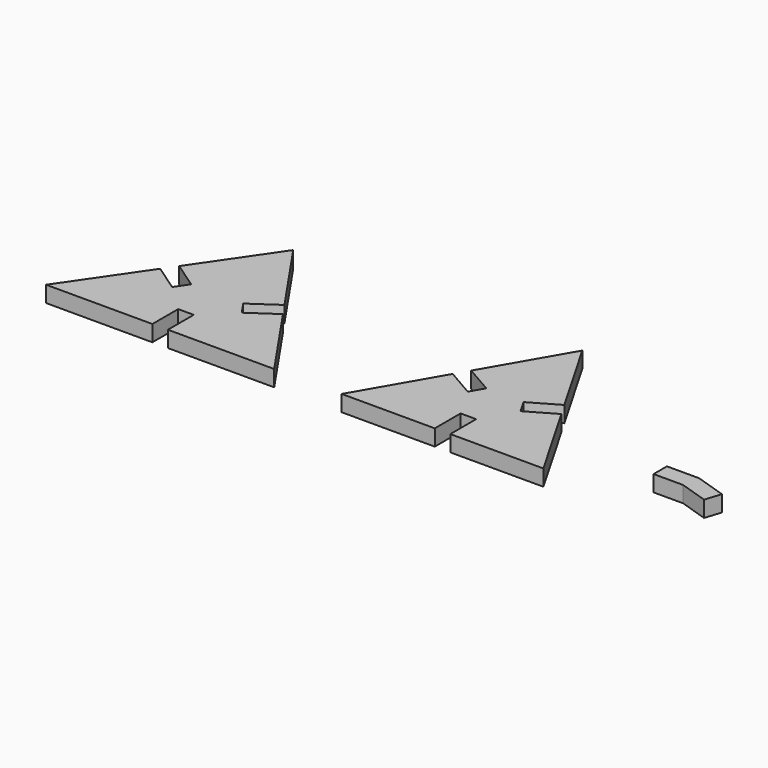
from build123d import *

# Parameters (mm, degrees)
PAD_DEPTH       = 4
SKETCH001_W     = 3.85
SKETCH001_H     = 8
POCKET_DEPTH    = 4.001
PAD001_DEPTH    = 4
SKETCH002_W     = 3.85
SKETCH002_H     = 8
POCKET001_DEPTH = 4.001
PAD003_DEPTH    = 4


with BuildPart() as obj1:
    # Sketch → Pad (new body)
    with BuildSketch(Plane.XY):
        Polygon((0, 41.240878), (-28.269948, 0), (28.269948, 0), align=None)
    extrude(amount=PAD_DEPTH)

    # Sketch001 (on Face5 of Pad) → Pocket (cut, through all)
    with BuildSketch(Plane.XY.offset(4)):
        with Locations((0, 4)):
            Rectangle(SKETCH001_W, SKETCH001_H)
        Polygon((-15.223367, 19.032665), (-13.046581, 22.208213), (-6.44804, 17.685021), (-8.624826, 14.509474), align=None)
        Polygon((13.046581, 22.208213), (15.223367, 19.032665), (8.624826, 14.509474), (6.44804, 17.685021), align=None)
    extrude(amount=-POCKET_DEPTH, mode=Mode.SUBTRACT)


with BuildPart() as obj2:
    # Sketch003 → Pad001 (new body)
    with BuildSketch(Plane.XY):
        Polygon((0, 43.30127), (-25, 0), (25, 0), align=None)
    extrude(amount=PAD001_DEPTH)

    # Sketch002 (on Face5 of Pad001) → Pocket001 (cut, through all)
    with BuildSketch(Plane.XY.offset(4)):
        with Locations((0, 4)):
            Rectangle(SKETCH002_W, SKETCH002_H)
        Polygon((-13.4625, 19.983536), (-11.5375, 23.317734), (-4.609297, 19.317734), (-6.534297, 15.983536), align=None)
        Polygon((11.5375, 23.317734), (13.4625, 19.983536), (6.534297, 15.983536), (4.609297, 19.317734), align=None)
    extrude(amount=-POCKET001_DEPTH, mode=Mode.SUBTRACT)


with BuildPart() as obj2_1:
    # Body001 placement: moved
    add(obj2.part.moved(Location((70, 0, 0))))


with BuildPart() as joint:
    # Sketch004 → Pad003 (new body)
    with BuildSketch(Plane.XY):
        Polygon((73.113163, 11.483846), (73.113163, 15.633846), (81.113163, 15.633846), (88.721616, 13.16171), (87.439195, 9.214825), (80.455868, 11.483846), align=None)
    extrude(amount=PAD003_DEPTH)


with BuildPart() as joint_1:
    # Body002 placement: moved
    add(joint.part.moved(Location((40, 0, 0))))


solid = Compound([obj1.part, obj2_1.part, joint_1.part])
